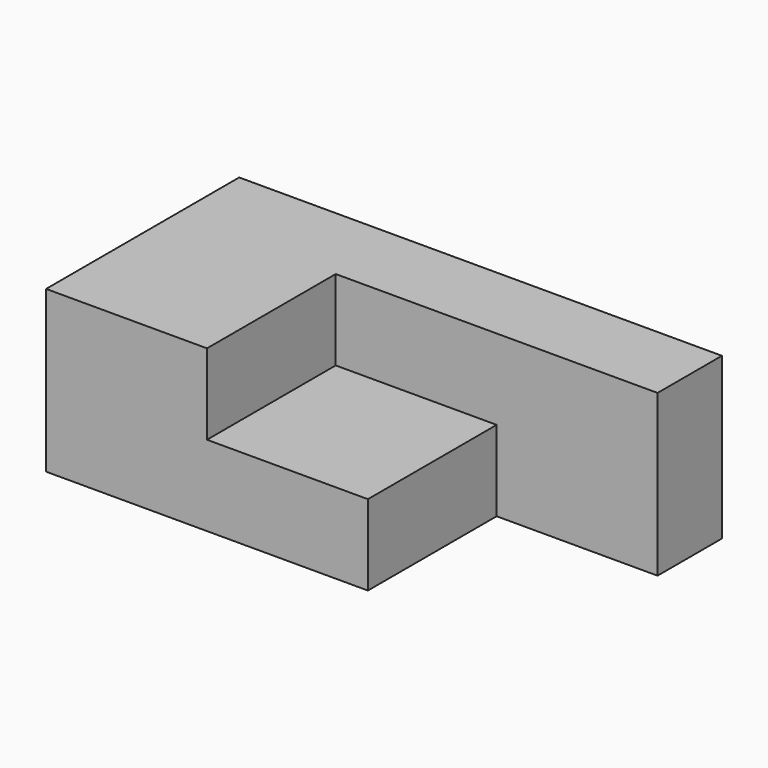
from build123d import *

# Parameters (mm, degrees)
F0_W     = 50.8
F0_H     = 50.8
F1_DEPTH = 25.4
F2_DEPTH = 50.8


with BuildPart() as f1:
    # F0 (on Top) → F1 (new body)
    with BuildSketch(Plane.XY):
        with Locations((7.422483, 35.861286)):
            Rectangle(F0_W, F0_H)
    extrude(amount=F1_DEPTH)

    # F0 (on Top) → F2 (join)
    with BuildSketch(Plane.XY):
        Polygon((-17.977517, 86.661286), (-68.777517, 86.661286), (-68.777517, 10.461286), (-17.977517, 10.461286), (-17.977517, 61.261286), align=None)
        Polygon((83.622483, 86.661286), (-17.977517, 86.661286), (-17.977517, 61.261286), (32.822483, 61.261286), (83.622483, 61.261286), align=None)
    extrude(amount=F2_DEPTH)


solid = f1.part
